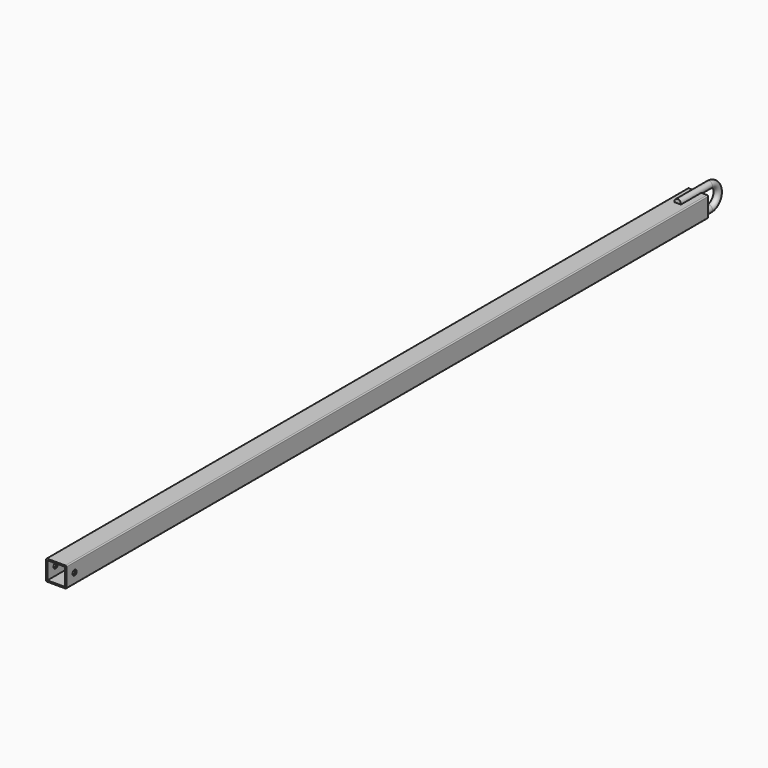
from build123d import *

# Parameters (mm, degrees)
F0_W     = 101.6
F0_H     = 101.6
F0_W_2   = 88.138
F0_H_2   = 88.138
F1_DEPTH = 2003.425
F2_R     = 12.7
F3_DEPTH = 101.601
F6_R     = 16.51
F8_R     = 5.08


with BuildPart() as f1:
    # F0 (on Front) → F1 (new body, symmetric)
    with BuildSketch(Plane.XZ):
        Rectangle(F0_W, F0_H)
        Rectangle(F0_W_2, F0_H_2, mode=Mode.SUBTRACT)
    extrude(amount=F1_DEPTH, both=True)

    # F2 (on face) → F3 (cut, through all)
    with BuildSketch(Plane.YZ.offset(50.8)):
        with Locations((-1952.625, 0)):
            Circle(F2_R)
    extrude(amount=-F3_DEPTH, mode=Mode.SUBTRACT)

    # F7: sweep along a path in F4
    with BuildLine(Plane.YZ) as f7_path:
        Line((1876.425, 53.34), (2073.275, 53.34))
        ThreePointArc((2073.275, 53.34), (2126.615, 0), (2073.275, -53.34))
        Line((2073.275, -53.34), (1876.425, -53.34))
    # F6 (on plane+point) → F7 (sweep)
    with BuildSketch(Plane.XZ.offset(-1876.425)):
        with Locations((0, 53.34)):
            Circle(F6_R)
    sweep(path=f7_path.line)

    # F8
    f8_edges = [f1.edges().sort_by_distance(p)[0] for p in [
        (50.8, 0, 50.8),
        (-50.8, 0, 50.8),
        (50.8, 0, -50.8),
        (-50.8, 0, -50.8),
    ]]
    fillet(f8_edges, radius=F8_R)


solid = f1.part
